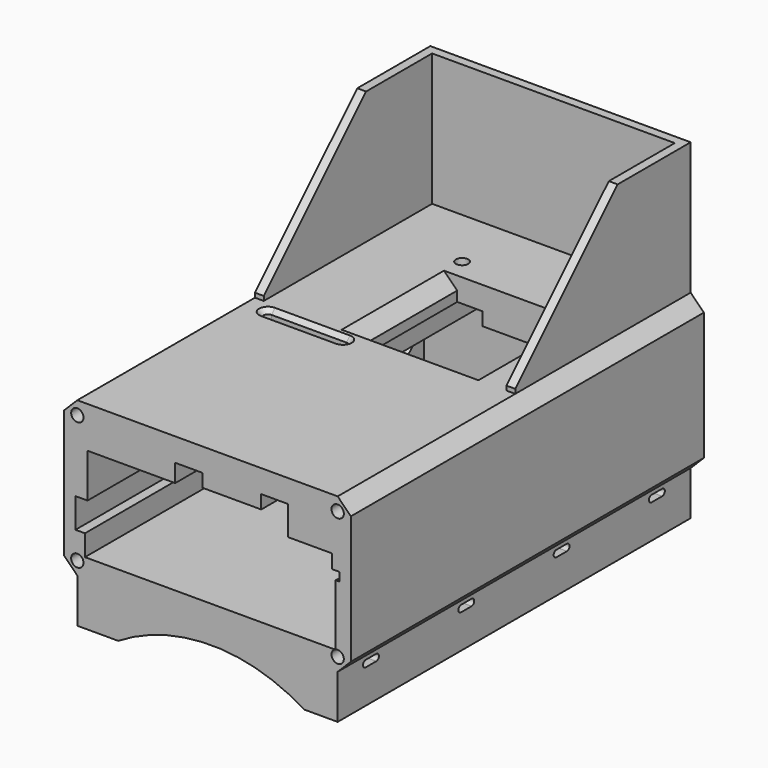
from build123d import *

# Parameters (mm, degrees)
SKETCH043_W         = 65
SKETCH043_H         = 100
PAD_DEPTH           = 35
POCKET_DEPTH        = 96
CHAMFER_SIZE        = 3
SKETCH045_W         = 25
SKETCH045_H         = 25
POCKET001_DEPTH     = 10
CHAMFER001_SIZE     = 4
CHAMFER002_SIZE     = 3
CHAMFER003_SIZE     = 3
PAD001_DEPTH        = 30
CHAMFER004_SIZE     = 29
CHAMFER005_SIZE     = 3
SKETCH047_R         = 1.4
POCKET002_DEPTH     = 5
SKETCH048_W         = 59
SKETCH048_H         = 100
PAD002_DEPTH        = 10
SKETCH049_R         = 40
POCKET003_DEPTH     = 100
POCKET004_DEPTH     = 500
LINEARPATTERN_COUNT = 4
LINEARPATTERN_PITCH = 27
SKETCH051_R         = 1.4
POCKET005_DEPTH     = 10
POCKET006_DEPTH     = 11
CHAMFER006_SIZE     = 1
CHAMFER007_SIZE     = 1
CHAMFER008_SIZE     = 2
POCKET008_DEPTH     = 5
PAD005_DEPTH        = 20
CHAMFER010_SIZE     = 19
FILLET001_R         = 3
FILLET002_R         = 1
FILLET003_R         = 1


with BuildPart() as part:
    # Sketch043 → Pad (new body)
    with BuildSketch(Plane.XY):
        with Locations((-0.83, -1.54)):
            Rectangle(SKETCH043_W, SKETCH043_H)
    extrude(amount=PAD_DEPTH)

    # Sketch042 (on Face3 of Pad) → Pocket (cut)
    with BuildSketch(Plane.XZ.offset(51.54)):
        Polygon((0, 4.25), (-28.6, 4.25), (-28.6, 9.01), (-30.75, 9.01), (-30.75, 15.73), (-28.01, 15.73), (-28.01, 25.67), (-8.15, 25.67), (-8.15, 29.73), (-2.01, 29.73), (-2.01, 26.75), (11.35, 26.75), (11.35, 29.82), (17.4, 29.82), (17.4, 23.21), (27.42, 23.21), (27.42, 20.07), (29.09, 20.07), (29.09, 18.12), (28.23, 18.12), (28.23, 4.25), align=None)
    extrude(amount=-POCKET_DEPTH, mode=Mode.SUBTRACT)

    # Chamfer
    chamfer_edges = [part.edges().sort_by_distance(p)[0] for p in [
        (-33.33, -1.54, 35),
        (-33.33, -1.54, 0),
        (31.67, -1.54, 35),
        (31.67, -1.54, 0),
    ]]
    chamfer(chamfer_edges, length=CHAMFER_SIZE)

    # Sketch045 (on Face6 of Chamfer) → Pocket001 (cut)
    with BuildSketch(Plane.XY.offset(35)):
        with Locations((4.82, 15.27)):
            Rectangle(SKETCH045_W, SKETCH045_H)
    extrude(amount=-POCKET001_DEPTH, mode=Mode.SUBTRACT)

    # Chamfer001
    chamfer001_edges = [part.edges().sort_by_distance(p)[0] for p in [
        (4.82, 2.77, 35),
    ]]
    chamfer(chamfer001_edges, length=CHAMFER001_SIZE)

    # Chamfer002
    chamfer002_edges = [part.edges().sort_by_distance(p)[0] for p in [
        (-7.68, 15.27, 35),
    ]]
    chamfer(chamfer002_edges, length=CHAMFER002_SIZE)

    # Chamfer003
    chamfer003_edges = [part.edges().sort_by_distance(p)[0] for p in [
        (17.32, 15.27, 35),
    ]]
    chamfer(chamfer003_edges, length=CHAMFER003_SIZE)

    # Sketch046 (on Face1 of Chamfer003) → Pad001 (join)
    with BuildSketch(Plane.XY.offset(35)):
        Polygon((-30.33, 48.46), (28.67, 48.46), (28.67, -1.23), (26.67, -1.23), (26.67, 46.46), (-28.33, 46.46), (-28.33, -1.23), (-30.33, -1.23), align=None)
    extrude(amount=PAD001_DEPTH)

    # Chamfer004
    chamfer004_edges = [part.edges().sort_by_distance(p)[0] for p in [
        (-29.33, -1.23, 65),
        (27.67, -1.23, 65),
    ]]
    chamfer(chamfer004_edges, length=CHAMFER004_SIZE)

    # Chamfer005
    chamfer005_edges = [part.edges().sort_by_distance(p)[0] for p in [
        (4.67, 2.77, 26.75),
    ]]
    chamfer(chamfer005_edges, length=CHAMFER005_SIZE)

    # Sketch047 (on Face6 of Chamfer005) → Pocket002 (cut)
    with BuildSketch(Plane.XZ.offset(51.54)):
        with Locations((-30.33, 32)):
            Circle(SKETCH047_R)
        with Locations((-30.33, 3)):
            Circle(SKETCH047_R)
        with Locations((28.67, 32)):
            Circle(SKETCH047_R)
        with Locations((28.67, 3)):
            Circle(SKETCH047_R)
    extrude(amount=-POCKET002_DEPTH, mode=Mode.SUBTRACT)

    # Sketch048 (on Face19 of Pocket002) → Pad002 (join)
    with BuildSketch(Plane(origin=(0, 0, 0), x_dir=(1, 0, 0), z_dir=(0, 0, -1))):
        with Locations((-0.83, 1.54)):
            Rectangle(SKETCH048_W, SKETCH048_H)
    extrude(amount=PAD002_DEPTH)

    # Sketch049 (on Face19 of Pad002) → Pocket003 (cut)
    with BuildSketch(Plane.XZ.offset(51.54)):
        with Locations((0, -44)):
            Circle(SKETCH049_R)
    extrude(amount=-POCKET003_DEPTH, mode=Mode.SUBTRACT)

    # Sketch050 (on Face53 of Pocket003) → Pocket004 (cut)
    with BuildSketch(Plane(origin=(-30.33, 0, 0), x_dir=(0, -1, 0), z_dir=(-1, 0, 0))):
        with BuildLine():
            ThreePointArc((-40.389904, -0.843272), (-41.139904, -1.593272), (-40.389904, -2.343272))
            Line((-40.389904, -2.343272), (-37.389904, -2.343272))
            ThreePointArc((-37.389904, -2.343272), (-36.639904, -1.593272), (-37.389904, -0.843272))
            Line((-40.389904, -0.843272), (-37.389904, -0.843272))
        make_face()
    pocket004 = extrude(amount=-POCKET004_DEPTH, mode=Mode.SUBTRACT)

    # LinearPattern: Pocket004 ×4
    with Locations(*[(0, -i * LINEARPATTERN_PITCH, 0) for i in range(1, LINEARPATTERN_COUNT)]):
        add(pocket004, mode=Mode.SUBTRACT)

    # Sketch051 (on Face20 of LinearPattern) → Pocket005 (cut)
    with BuildSketch(Plane.XY.offset(35)):
        with Locations((-10.33, 32.46)):
            Circle(SKETCH051_R)
    extrude(amount=-POCKET005_DEPTH, mode=Mode.SUBTRACT)

    # Sketch052 (on Face20 of Pocket005) → Pocket006 (cut)
    with BuildSketch(Plane.XY.offset(35)):
        with BuildLine():
            ThreePointArc((-25.13, -3.04), (-26.13, -4.04), (-25.13, -5.04))
            Line((-25.13, -5.04), (-8.13, -5.04))
            ThreePointArc((-8.13, -5.04), (-7.13, -4.04), (-8.13, -3.04))
            Line((-25.13, -3.04), (-8.13, -3.04))
        make_face()
    extrude(amount=-POCKET006_DEPTH, mode=Mode.SUBTRACT)

    # Chamfer006
    chamfer006_edges = [part.edges().sort_by_distance(p)[0] for p in [
        (-16.63, -3.04, 35),
    ]]
    chamfer(chamfer006_edges, length=CHAMFER006_SIZE)

    # Chamfer007
    chamfer007_edges = [part.edges().sort_by_distance(p)[0] for p in [
        (-16.64, -5.04, 25.67),
    ]]
    chamfer(chamfer007_edges, length=CHAMFER007_SIZE)

    # Chamfer008
    chamfer008_edges = [part.edges().sort_by_distance(p)[0] for p in [
        (-8.15, -5.04, 28.2),
    ]]
    chamfer(chamfer008_edges, length=CHAMFER008_SIZE)

    # Sketch056 (on Face24 of Chamfer008) → Pocket008 (cut)
    with BuildSketch(Plane(origin=(-33.33, 0, 0), x_dir=(0, -1, 0), z_dir=(-1, 0, 0))):
        with BuildLine():
            ThreePointArc((-38, 14.96), (-42, 10.96), (-38, 6.96))
            Line((-38, 6.96), (-24, 6.96))
            ThreePointArc((-24, 6.96), (-20, 10.96), (-24, 14.96))
            Line((-38, 14.96), (-24, 14.96))
        make_face()
    extrude(amount=-POCKET008_DEPTH, mode=Mode.SUBTRACT)

    # Sketch057 (on Face24 of Pocket008) → Pad005 (join)
    with BuildSketch(Plane(origin=(-33.33, 0, 0), x_dir=(0, -1, 0), z_dir=(-1, 0, 0))):
        Polygon((-48.46, 18), (-13.46, 18), (-13.46, 16), (-46.46, 16), (-46.46, 6), (-13.46, 6), (-13.46, 4), (-48.46, 4), align=None)
    extrude(amount=PAD005_DEPTH)

    # Chamfer010
    chamfer010_edges = [part.edges().sort_by_distance(p)[0] for p in [
        (-53.33, 13.46, 5),
        (-53.33, 13.46, 17),
    ]]
    chamfer(chamfer010_edges, length=CHAMFER010_SIZE)

    # Fillet001
    fillet001_edges = [part.edges().sort_by_distance(p)[0] for p in [
        (-43.33, 46.46, 6),
        (-43.33, 46.46, 16),
    ]]
    fillet(fillet001_edges, radius=FILLET001_R)

    # Fillet002
    fillet002_edges = [part.edges().sort_by_distance(p)[0] for p in [
        (-53.33, 37.96, 16),
        (-43.83, 22.96, 16),
        (-43.83, 22.96, 6),
    ]]
    fillet(fillet002_edges, radius=FILLET002_R)

    # Fillet003
    fillet003_edges = [part.edges().sort_by_distance(p)[0] for p in [
        (-33.33, 20, 10.96),
    ]]
    fillet(fillet003_edges, radius=FILLET003_R)


with BuildPart() as part_1:
    # Body012 placement: moved
    add(part.part.moved(Location((0, 0, -8.6))))


solid = part_1.part
